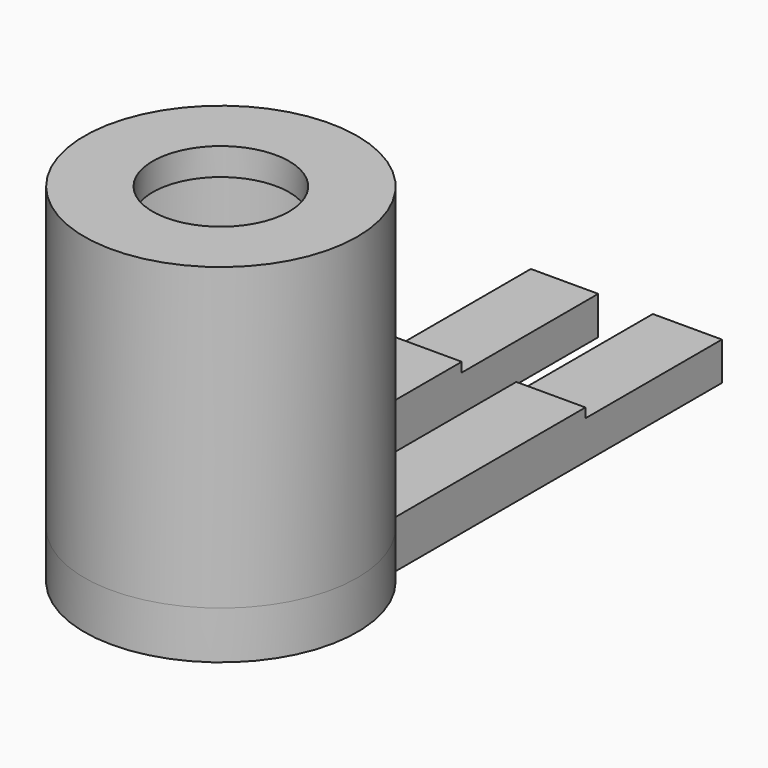
from build123d import *

# Parameters (mm, degrees)
F0_R     = 3
F1_DEPTH = 3.5
F2_W     = 14
F2_H     = 12.5
F3_DEPTH = 0.7
F4_R     = 10
F4_R_2   = 8.4
F5_DEPTH = 20
F6_R     = 10
F6_R_2   = 5
F7_DEPTH = 2


with BuildPart() as f1:
    # F0 (on Top) → F1 (new body)
    with BuildSketch(Plane.XY):
        with BuildLine():
            Line((-7, 37.141428), (-7, 7.141428))
            ThreePointArc((-7, 7.141428), (0, -10), (7, 7.141428))
            Line((7, 7.141428), (7, 37.141428))
            Line((7, 37.141428), (1.936133, 37.141428))
            Line((1.936133, 37.141428), (1.936133, 9.810779))
            ThreePointArc((1.936133, 9.810779), (-0.065184, 9.999788), (-2.063867, 9.784705))
            Line((-2.063867, 9.784705), (-2.063867, 37.141428))
            Line((-2.063867, 37.141428), (-7, 37.141428))
        make_face()
        Circle(F0_R, mode=Mode.SUBTRACT)
    extrude(amount=F1_DEPTH)

    # F2 (on face) → F3 (cut)
    with BuildSketch(Plane.XY.offset(3.5)):
        with Locations((0, 30.891428)):
            Rectangle(F2_W, F2_H)
    extrude(amount=-F3_DEPTH, mode=Mode.SUBTRACT)

    # F4 (on face) → F5 (join)
    with BuildSketch(Plane.XY.offset(3.5)):
        Circle(F4_R)
        Circle(F4_R_2, mode=Mode.SUBTRACT)
    extrude(amount=F5_DEPTH)

    # F6 (on face) → F7 (join)
    with BuildSketch(Plane.XY.offset(23.5)):
        Circle(F6_R)
        Circle(F6_R_2, mode=Mode.SUBTRACT)
    extrude(amount=F7_DEPTH)


solid = f1.part
